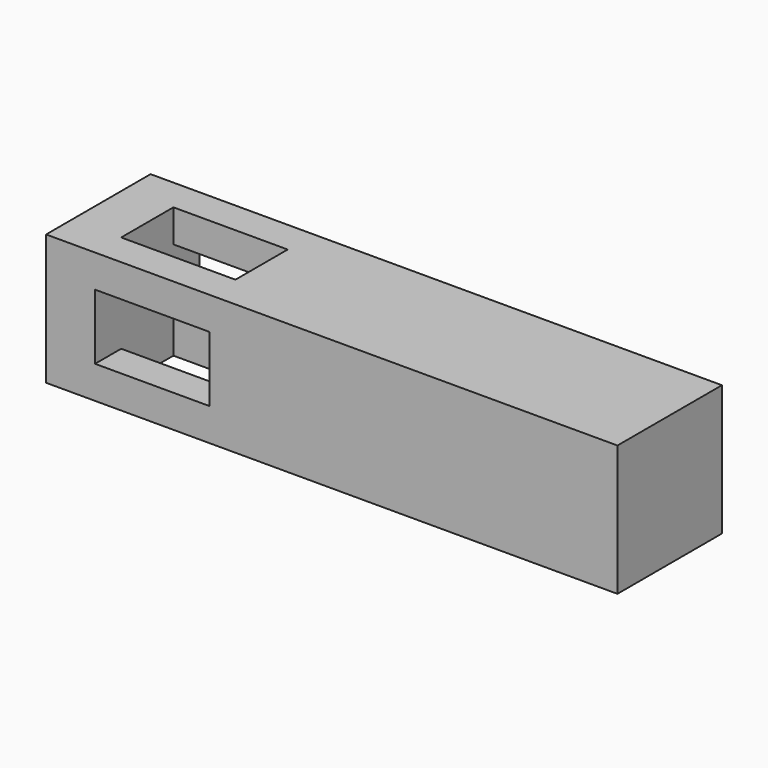
from build123d import *

# Parameters (mm, degrees)
F0_W     = 35
F0_H     = 8
F0_W_2   = 7
F0_H_2   = 4
F1_DEPTH = 8
F2_W     = 7
F2_H     = 4
F3_DEPTH = 25


with BuildPart() as f1:
    # F0 (on Front) → F1 (new body)
    with BuildSketch(Plane.XZ):
        with Locations((-24.851264, 35.211409)):
            Rectangle(F0_W, F0_H)
        with Locations((-35.851264, 35.211409)):
            Rectangle(F0_W_2, F0_H_2, mode=Mode.SUBTRACT)
    extrude(amount=F1_DEPTH)

    # F2 (on face) → F3 (cut)
    with BuildSketch(Plane.XY.offset(39.211409)):
        with Locations((-35.851264, -4)):
            Rectangle(F2_W, F2_H)
    extrude(amount=-F3_DEPTH, mode=Mode.SUBTRACT)


solid = f1.part
